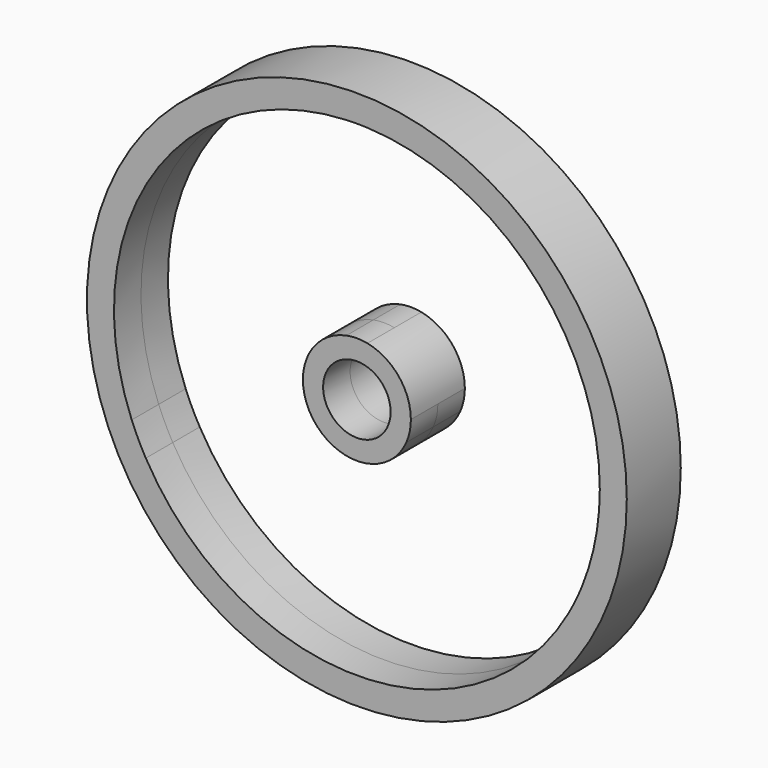
from build123d import *

# Parameters (mm, degrees)
F0_R     = 127
F1_DEPTH = 15.875
F0_R_2   = 15.875


with BuildPart() as f1:
    # F0 (on Front) → F1 (new body, symmetric)
    with BuildSketch(Plane.XZ):
        Circle(F0_R)
        with BuildLine():
            ThreePointArc((4.9440330351, 114.1930231553), (82.5517806468, 79.0550030804), (114.3, 0))
            ThreePointArc((114.3, 0), (112.1931243388, -21.844744244), (105.9501688349, -42.8841663538))
            ThreePointArc((105.9501688349, -42.8841663538), (102.9894708218, -49.5747808855), (99.6067867923, -56.0622691738))
            ThreePointArc((99.6067867923, -56.0622691738), (0.2926547393, -114.2996253415), (-99.3183970823, -56.571600658))
            ThreePointArc((-99.3183970823, -56.571600658), (-102.859308707, -49.8442836473), (-105.9451900746, -42.89646489))
            ThreePointArc((-105.9451900746, -42.89646489), (-96.1425075815, 61.8151133295), (-4.9440330351, 114.1930231553))
            ThreePointArc((-4.9440330351, 114.1930231553), (0, 114.3), (4.9440330351, 114.1930231553))
        make_face(mode=Mode.SUBTRACT)
    extrude(amount=F1_DEPTH, both=True)


with BuildPart() as f1b:
    # F0 (on Front) → F1, piece 2 (new body, symmetric)
    with BuildSketch(Plane.XZ):
        with BuildLine():
            ThreePointArc((25.4, 0), (19.6308232009, 16.1180265682), (4.9440330351, 24.9141834574))
            ThreePointArc((4.9440330351, 24.9141834574), (0, 25.4), (-4.9440330351, 24.9141834574))
            ThreePointArc((-4.9440330351, 24.9141834574), (-19.6308232009, 16.1180265682), (-25.4, 0))
            ThreePointArc((-25.4, 0), (-24.1989784901, -7.7181241267), (-20.7094929106, -14.706355884))
            ThreePointArc((-20.7094929106, -14.706355884), (2.5989075777, -25.2666911051), (23.2695586177, -10.1827128869))
            ThreePointArc((23.2695586177, -10.1827128869), (24.8616852696, -5.2015964429), (25.4, 0))
        make_face()
        Circle(F0_R_2, mode=Mode.SUBTRACT)
    extrude(amount=F1_DEPTH, both=True)


solid = Compound([f1.part, f1b.part])
